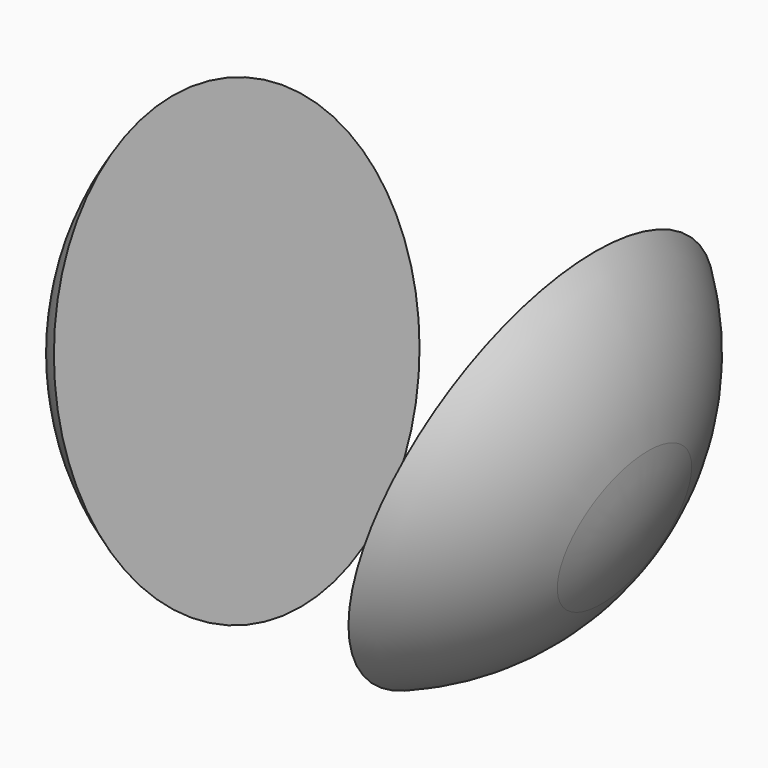
from build123d import *


with BuildPart() as f1:
    # F0 (on Front) → F1 (revolve)
    with BuildSketch(Plane.XZ):
        with BuildLine():
            Line((-61.25, 0), (-80, 60))
            ThreePointArc((-80, 60), (-94.8683298051, 31.6227766017), (-100, 0))
            Line((-100, 0), (-61.25, 0))
        make_face()
        with BuildLine():
            Line((-55.8007117438, -17.4377224199), (-61.25, 0))
            Line((-61.25, 0), (-100, 0))
            ThreePointArc((-100, 0), (-98.8554494713, -15.0864213724), (-95.4479978035, -29.8274993136))
            Line((-95.4479978035, -29.8274993136), (-75.6243547736, -23.6326108668))
            Line((-75.6243547736, -23.6326108668), (-70.1179114143, -21.911847317))
            Line((-70.1179114143, -21.911847317), (-55.8007117438, -17.4377224199))
        make_face()
    revolve(axis=Axis((-75.6243547736, 0, -23.6326108668), (-0.954479978, 0, -0.2982749931)))


with BuildPart() as f2:
    # F0 (on Front) → F2 (revolve)
    with BuildSketch(Plane.XZ):
        with BuildLine():
            ThreePointArc((95.4479978035, -29.8274993136), (98.8554494713, -15.0864213724), (100, 0))
            Line((100, 0), (61.25, 0))
            Line((61.25, 0), (55.8007117438, -17.4377224199))
            Line((55.8007117438, -17.4377224199), (74.8903113045, -23.4032222826))
            Line((74.8903113045, -23.4032222826), (75.6243547736, -23.6326108668))
            Line((75.6243547736, -23.6326108668), (95.4479978035, -29.8274993136))
        make_face()
        with BuildLine():
            Line((61.25, 0), (100, 0))
            ThreePointArc((100, 0), (94.8683298051, 31.6227766017), (80, 60))
            Line((80, 60), (61.25, 0))
        make_face()
    revolve(axis=Axis((75.6243547736, 0, -23.6326108668), (0.954479978, 0, -0.2982749931)))


solid = Compound([f1.part, f2.part])
